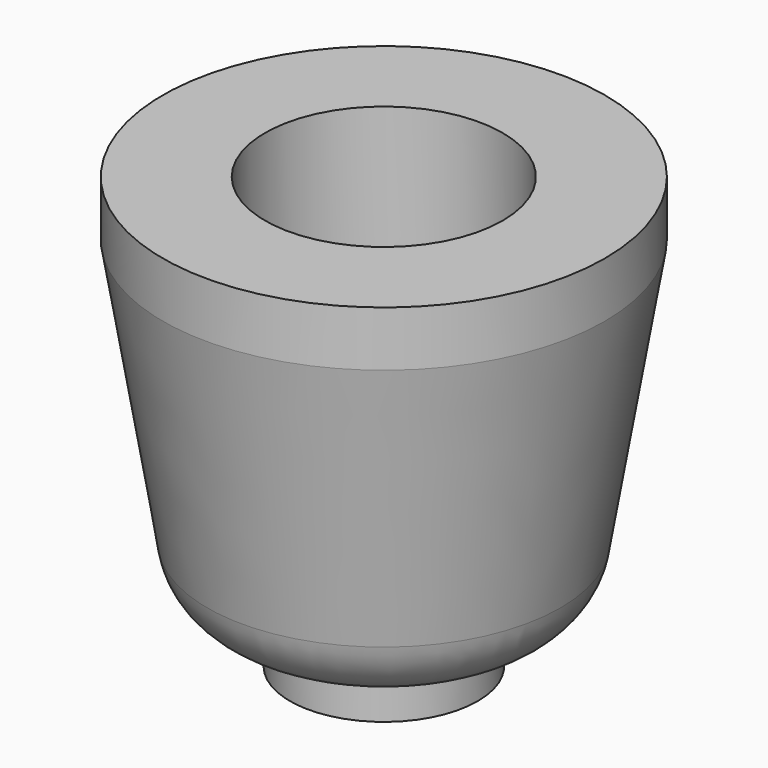
from build123d import *

# Parameters (mm, degrees)
F0_R     = 8.5
F1_DEPTH = 4
F2_R     = 20
F3_DEPTH = 35
F4_SIZE2 = 5
F4_SIZE  = 30
F5_R     = 7
F6_R     = 10.75
F7_DEPTH = 25
F8_SIZE  = 10


with BuildPart() as f1:
    # F0 (on Top) → F1 (new body)
    with BuildSketch(Plane.XY):
        Circle(F0_R)
    extrude(amount=F1_DEPTH)

    # F2 (on face) → F3 (join)
    with BuildSketch(Plane.XY.offset(4)):
        Circle(F2_R)
    extrude(amount=F3_DEPTH)

    # F4
    f4_edges = [f1.edges().sort_by_distance(p)[0] for p in [
        (-20, 0, 4),
    ]]
    f4_side = f1.faces().sort_by_distance((-20, 0, 21.5))[0]
    chamfer(f4_edges, length=F4_SIZE, length2=F4_SIZE2, reference=f4_side)

    # F5
    f5_edges = [f1.edges().sort_by_distance(p)[0] for p in [
        (-15, 0, 4),
    ]]
    fillet(f5_edges, radius=F5_R)

    # F6 (on face) → F7 (cut)
    with BuildSketch(Plane.XY.offset(39)):
        Circle(F6_R)
    extrude(amount=-F7_DEPTH, mode=Mode.SUBTRACT)

    # F8
    f8_edges = [f1.edges().sort_by_distance(p)[0] for p in [
        (-10.75, 0, 14),
    ]]
    chamfer(f8_edges, length=F8_SIZE)


solid = f1.part
